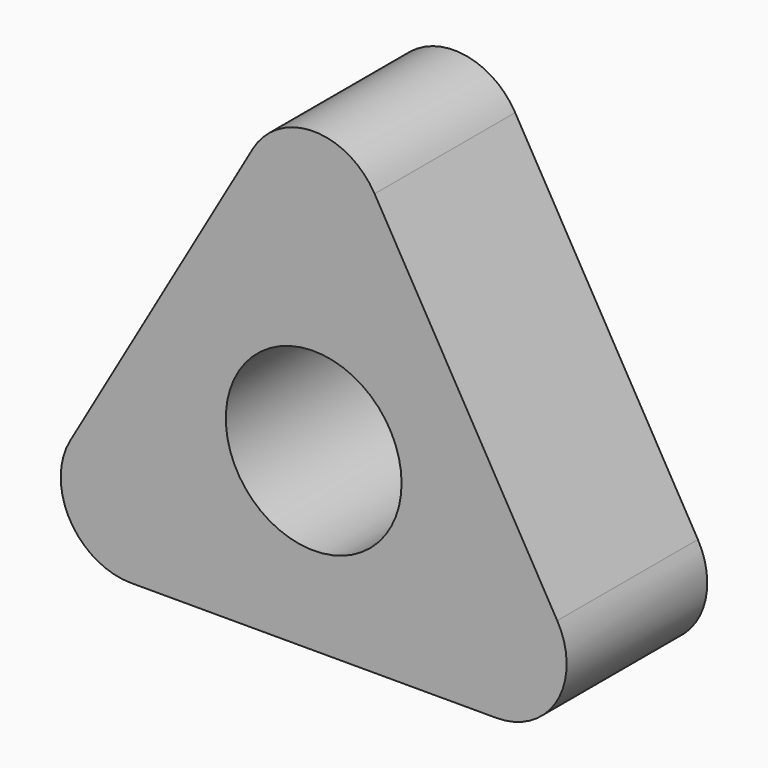
from build123d import *

# Parameters (mm, degrees)
F0_R     = 12.7
F1_DEPTH = 12.7
F2_R     = 10.16


with BuildPart() as f1:
    # F0 (on Front) → F1 (new body, symmetric)
    with BuildSketch(Plane.XZ):
        Polygon((0, 50.8), (-43.994091, -25.4), (43.994091, -25.4), align=None)
        Circle(F0_R, mode=Mode.SUBTRACT)
    extrude(amount=F1_DEPTH, both=True)

    # F2
    f2_edges = [f1.edges().sort_by_distance(p)[0] for p in [
        (-43.994091, 0, -25.4),
        (43.994091, 0, -25.4),
        (0, 0, 50.8),
    ]]
    fillet(f2_edges, radius=F2_R)


solid = f1.part
